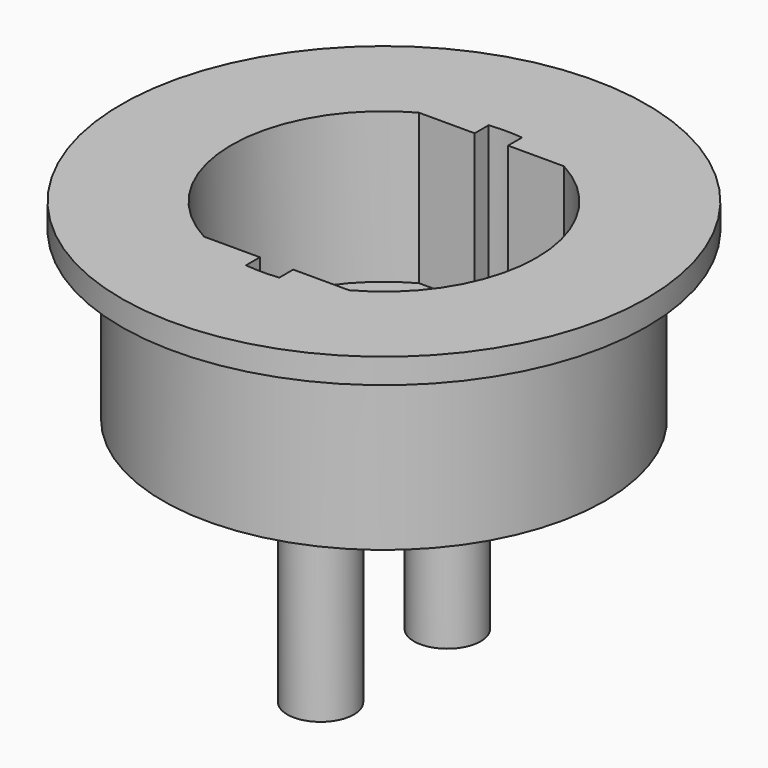
from build123d import *

# Parameters (mm, degrees)
F3_DEPTH = 18
F4_D     = 4.86
F6_DEPTH = 26


with BuildPart() as f1:
    # F0 (on Front) → F1 (revolve)
    with BuildSketch(Plane.XZ):
        Polygon((0, 29), (0, 6), (26.5, 6), (26.5, 26), (31.5, 26), (31.5, 29), align=None)
    revolve(axis=Axis((0, 0, 14.5), (0, 0, 1)))

    # F2 (on face) → F3 (cut)
    with BuildSketch(Plane.XY.offset(29)):
        with BuildLine():
            Line((2, -16.1), (0, -16.1))
            Line((0, -16.1), (-2, -16.1))
            Line((-2, -16.1), (-2, -18.1903820741))
            ThreePointArc((-2, -18.1903820741), (0, -18.3), (2, -18.1903820741))
            Line((2, -18.1903820741), (2, -16.1))
        make_face()
        with BuildLine():
            Line((0, -9.5), (0, 0))
            Line((0, 0), (0, 9.5))
            Line((0, 9.5), (0, 16.1))
            Line((0, 16.1), (-2, 16.1))
            Line((-2, 16.1), (-8.6994252684, 16.1))
            ThreePointArc((-8.6994252684, 16.1), (-18.3, 0), (-8.6994252684, -16.1))
            Line((-8.6994252684, -16.1), (-2, -16.1))
            Line((-2, -16.1), (0, -16.1))
            Line((0, -16.1), (0, -9.5))
        make_face()
        with BuildLine():
            Line((-2, 16.1), (0, 16.1))
            Line((0, 16.1), (2, 16.1))
            Line((2, 16.1), (2, 18.1903820741))
            ThreePointArc((2, 18.1903820741), (0, 18.3), (-2, 18.1903820741))
            Line((-2, 18.1903820741), (-2, 16.1))
        make_face()
        with BuildLine():
            Line((0, 9.5), (0, 0))
            Line((0, 0), (10, 0))
            Line((10, 0), (18.3, 0))
            ThreePointArc((18.3, 0), (15.7176569884, 9.3725801567), (8.6994252684, 16.1))
            Line((8.6994252684, 16.1), (2, 16.1))
            Line((2, 16.1), (0, 16.1))
            Line((0, 16.1), (0, 9.5))
        make_face()
        with BuildLine():
            Line((10, 0), (0, 0))
            Line((0, 0), (0, -9.5))
            Line((0, -9.5), (0, -16.1))
            Line((0, -16.1), (2, -16.1))
            Line((2, -16.1), (8.6994252684, -16.1))
            ThreePointArc((8.6994252684, -16.1), (15.7176569884, -9.3725801567), (18.3, 0))
            Line((18.3, 0), (10, 0))
        make_face()
    extrude(amount=-F3_DEPTH, mode=Mode.SUBTRACT)

    # F4 (through all)
    with Locations(Plane.XY.offset(29)):
        with Locations((0, 9.5), (0, -9.5)):
            Hole(F4_D / 2)

    # F5 (on face) → F6 (join)
    with BuildSketch(Plane(origin=(0, 0, 6), x_dir=(1, 0, 0), z_dir=(0, 0, -1))):
        with BuildLine():
            ThreePointArc((4, 9.5), (0, 13.5), (-4, 9.5))
            ThreePointArc((-4, 9.5), (0, 5.5), (4, 9.5))
        make_face()
        with BuildLine():
            ThreePointArc((3, 9.5), (0, 6.5), (-3, 9.5))
            ThreePointArc((-3, 9.5), (0, 12.5), (3, 9.5))
        make_face(mode=Mode.SUBTRACT)
        with BuildLine():
            ThreePointArc((4, -9.5), (0, -5.5), (-4, -9.5))
            ThreePointArc((-4, -9.5), (0, -13.5), (4, -9.5))
        make_face()
        with BuildLine():
            ThreePointArc((3, -9.5), (0, -12.5), (-3, -9.5))
            ThreePointArc((-3, -9.5), (0, -6.5), (3, -9.5))
        make_face(mode=Mode.SUBTRACT)
    extrude(amount=F6_DEPTH)


solid = f1.part
